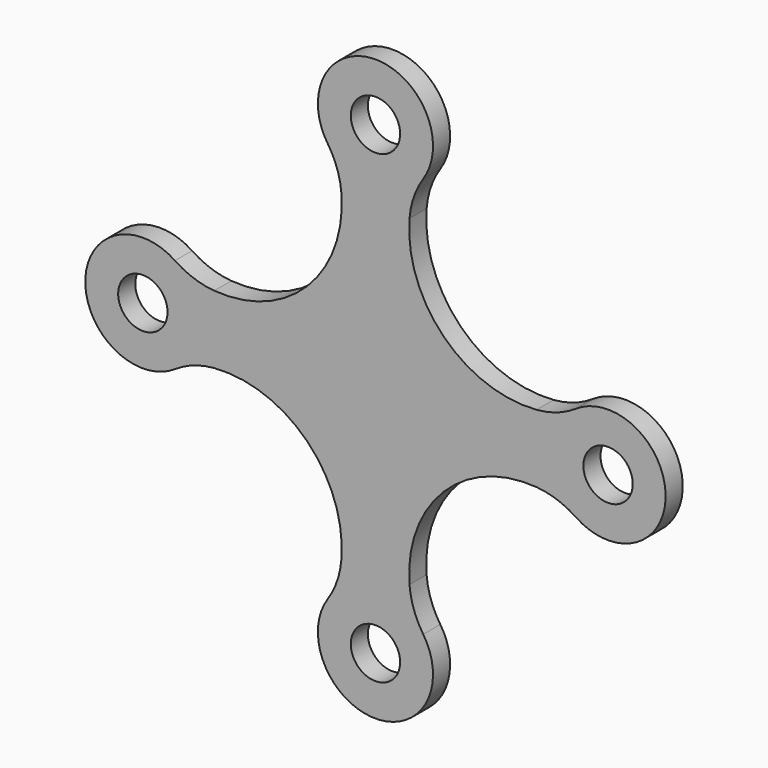
from build123d import *

# Parameters (mm, degrees)
F0_R     = 1.5
F1_DEPTH = 1.3


with BuildPart() as f1:
    # F0 (on Front) → F1 (new body)
    with BuildSketch(Plane.XZ):
        with BuildLine():
            ThreePointArc((-9.796829, 2.07035), (-11.047029, 2.333477), (-12.189734, 2.904845))
            ThreePointArc((-12.189734, 2.904845), (-17.642136, 0), (-12.189734, -2.904845))
            ThreePointArc((-12.189734, -2.904845), (-11.047029, -2.333477), (-9.796829, -2.07035))
            ThreePointArc((-9.796829, -2.07035), (-4.150758, -4.150758), (-2.07035, -9.796829))
            ThreePointArc((-2.07035, -9.796829), (-2.333477, -11.047029), (-2.904845, -12.189734))
            ThreePointArc((-2.904845, -12.189734), (0, -17.642136), (2.904845, -12.189734))
            ThreePointArc((2.904845, -12.189734), (2.333477, -11.047029), (2.07035, -9.796829))
            ThreePointArc((2.07035, -9.796829), (4.150758, -4.150758), (9.796829, -2.07035))
            ThreePointArc((9.796829, -2.07035), (11.047029, -2.333477), (12.189734, -2.904845))
            ThreePointArc((12.189734, -2.904845), (17.642136, 0), (12.189734, 2.904845))
            ThreePointArc((12.189734, 2.904845), (11.047029, 2.333477), (9.796829, 2.07035))
            ThreePointArc((9.796829, 2.07035), (4.150758, 4.150758), (2.07035, 9.796829))
            ThreePointArc((2.07035, 9.796829), (2.333477, 11.047029), (2.904845, 12.189734))
            ThreePointArc((2.904845, 12.189734), (0, 17.642136), (-2.904845, 12.189734))
            ThreePointArc((-2.904845, 12.189734), (-2.333477, 11.047029), (-2.07035, 9.796829))
            ThreePointArc((-2.07035, 9.796829), (-4.150758, 4.150758), (-9.796829, 2.07035))
        make_face()
        with Locations((0, -14.142136)):
            Circle(F0_R, mode=Mode.SUBTRACT)
        with Locations((-14.142136, 0)):
            Circle(F0_R, mode=Mode.SUBTRACT)
        with Locations((14.142136, 0)):
            Circle(F0_R, mode=Mode.SUBTRACT)
        with Locations((0, 14.142136)):
            Circle(F0_R, mode=Mode.SUBTRACT)
    extrude(amount=F1_DEPTH)


solid = f1.part
